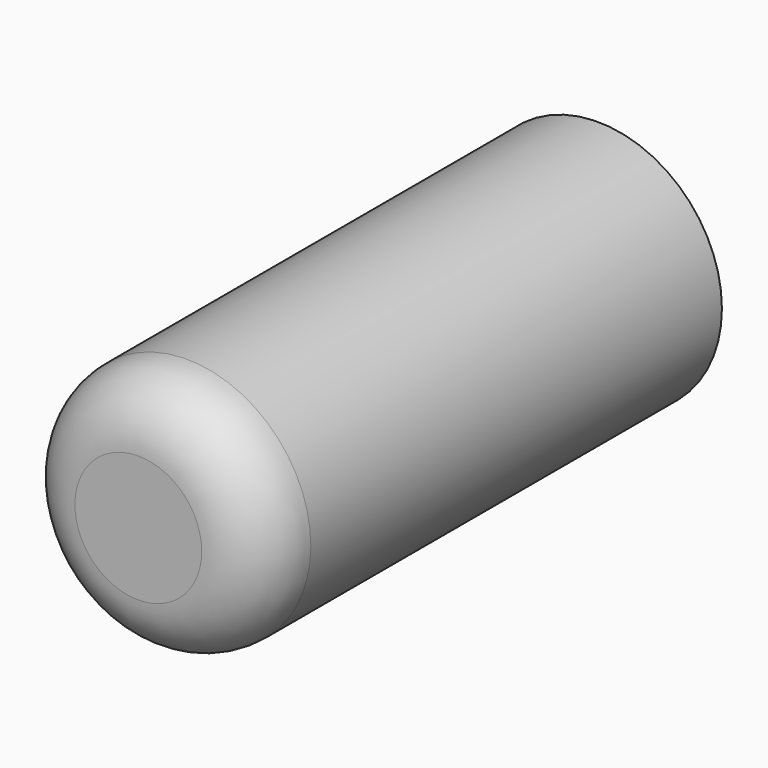
from build123d import *

# Parameters (mm, degrees)
F0_R     = 28.575
F1_DEPTH = 132.37323
F2_R     = 20.952387
F3_DEPTH = 17.41577
F4_R     = 13.961373


with BuildPart() as f1:
    # F0 (on Front) → F1 (new body)
    with BuildSketch(Plane.XZ):
        with Locations((-50.799999, 25.400002)):
            Circle(F0_R)
    extrude(amount=F1_DEPTH)

    # F2 (on face) → F3 (join)
    with BuildSketch(Plane.XZ.offset(132.37323)):
        with Locations((-50.799999, 25.400002)):
            Circle(F2_R)
    extrude(amount=-F3_DEPTH)

    # F4
    f4_edges = [f1.edges().sort_by_distance(p)[0] for p in [
        (-79.374999, -132.37323, 25.400002),
    ]]
    fillet(f4_edges, radius=F4_R)


solid = f1.part
